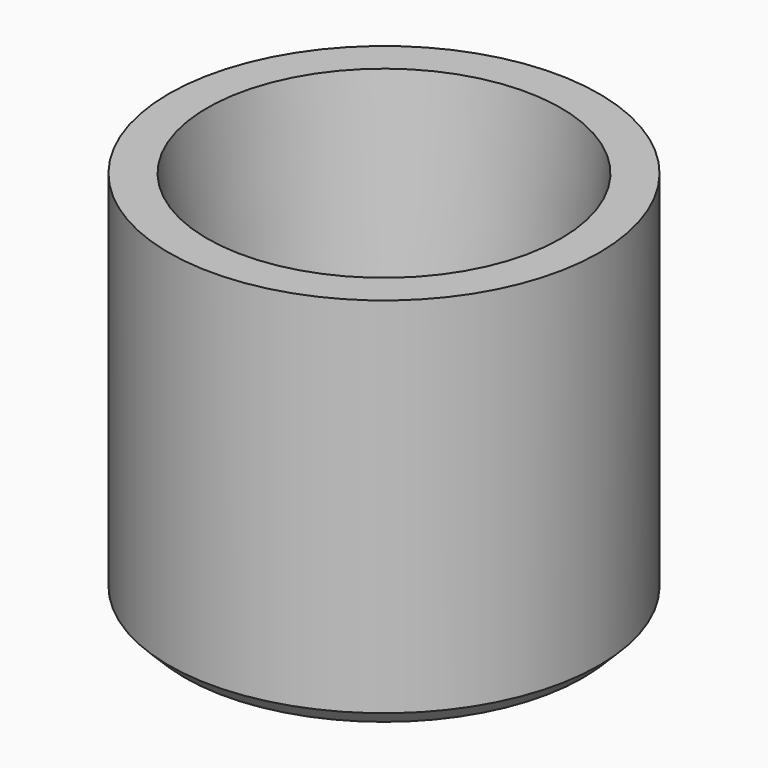
from build123d import *

# Parameters (mm, degrees)
F0_R     = 5.39
F0_R_2   = 3.95
F1_DEPTH = 1.5
F2_DEPTH = 8
F3_SIZE2 = 5
F3_SIZE  = 0.48
F4_SIZE  = 0.4


with BuildPart() as f1:
    # F0 (on Top) → F1 (new body)
    with BuildSketch(Plane.XY):
        Circle(F0_R)
        Circle(F0_R_2, mode=Mode.SUBTRACT)
        Circle(F0_R_2)
    extrude(amount=-F1_DEPTH)

    # F0 (on Top) → F2 (join)
    with BuildSketch(Plane.XY):
        Circle(F0_R)
        Circle(F0_R_2, mode=Mode.SUBTRACT)
    extrude(amount=F2_DEPTH)

    # F3
    f3_edges = [f1.edges().sort_by_distance(p)[0] for p in [
        (-3.95, 0, 8),
    ]]
    chamfer(f3_edges, length=F3_SIZE, length2=F3_SIZE2)

    # F4
    f4_edges = [f1.edges().sort_by_distance(p)[0] for p in [
        (-5.39, 0, -1.5),
    ]]
    chamfer(f4_edges, length=F4_SIZE)


solid = f1.part
